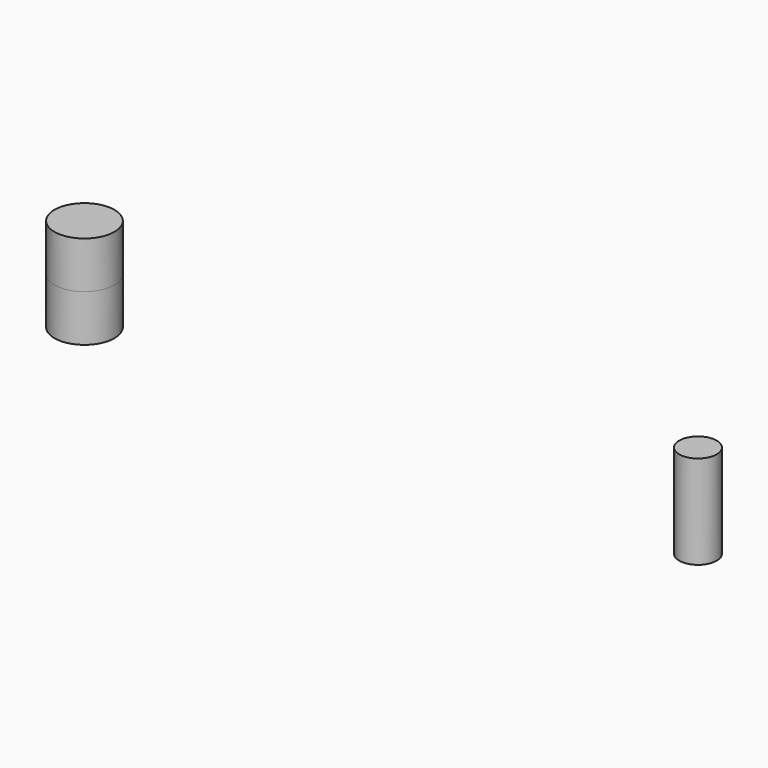
from build123d import *

# Parameters (mm, degrees)
F0_R     = 8
F0_R_2   = 5
F1_DEPTH = 12.5


with BuildPart() as f1:
    # F0 (on Top) → F1 (new body, symmetric)
    with BuildSketch(Plane.XY):
        Circle(F0_R)
        with Locations((163.8, 0)):
            Circle(F0_R_2)
    extrude(amount=F1_DEPTH, both=True)


solid = f1.part
